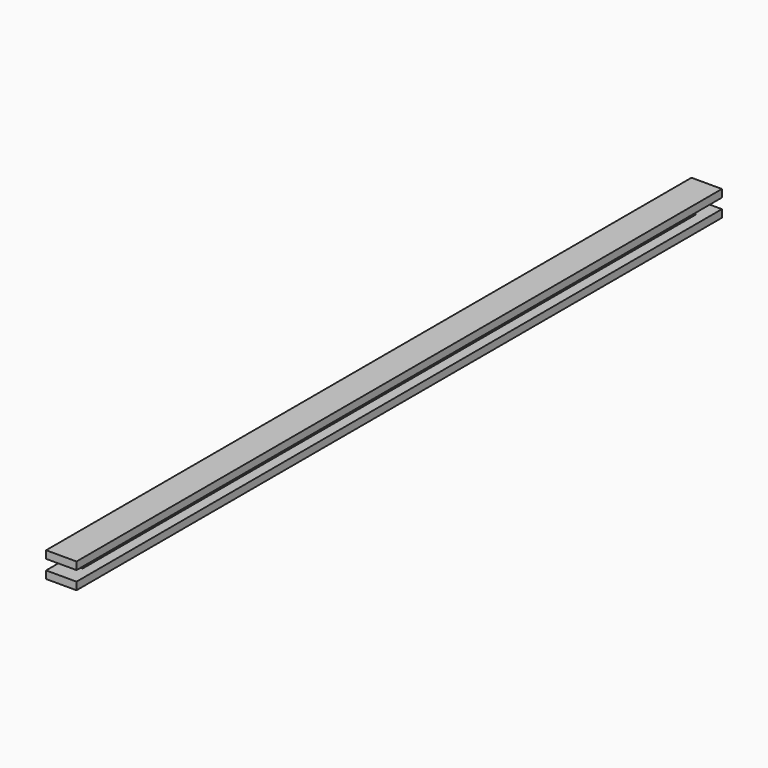
from build123d import *

# Parameters (mm, degrees)
F1_DEPTH      = 252.4125
F2_W          = 12.7
F2_H          = 6.35
F3_DEPTH      = 9.526
F3_DEPTH_BACK = 9.526


with BuildPart() as f1:
    # F0 (on Front) → F1 (new body, symmetric)
    with BuildSketch(Plane.XZ):
        Polygon((9.525, 7.9375), (-9.525, 7.9375), (-9.525, -7.9375), (9.525, -7.9375), (9.525, -3.175), (3.175, -3.175), (3.175, 3.175), (9.525, 3.175), align=None)
    extrude(amount=F1_DEPTH, both=True)

    # F2 (on Right) → F3 (cut, two sides)
    with BuildSketch(Plane.YZ) as f3_sk:
        with Locations((-246.0625, 0)):
            Rectangle(F2_W, F2_H)
        with Locations((246.0625, 0)):
            Rectangle(F2_W, F2_H)
    extrude(amount=-F3_DEPTH, mode=Mode.SUBTRACT)
    extrude(f3_sk.sketch, amount=F3_DEPTH_BACK, mode=Mode.SUBTRACT)


solid = f1.part
